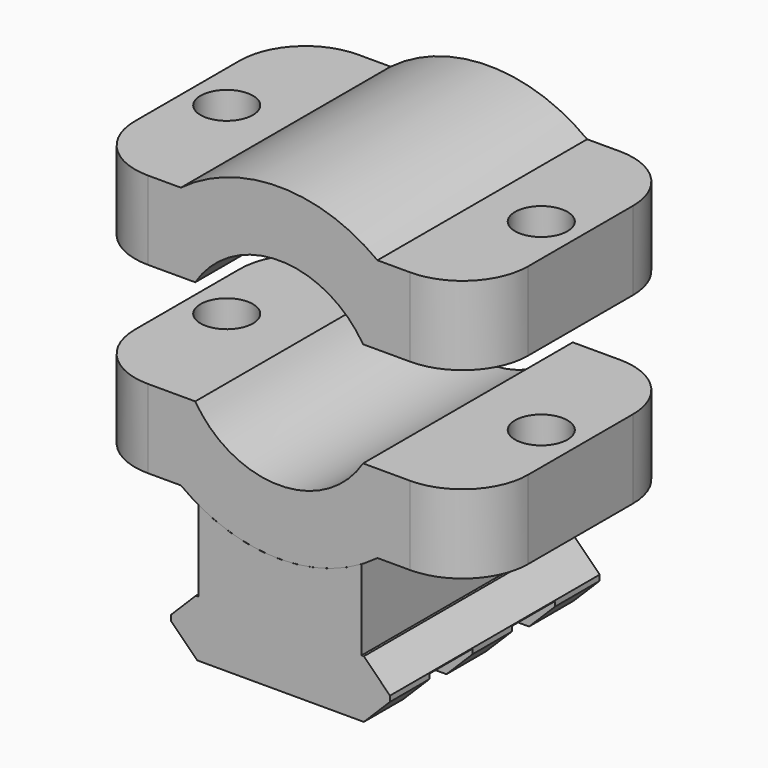
from build123d import *

# Parameters (mm, degrees)
F1_DEPTH = 25.4
F3_DEPTH = 25.4
F4_W     = 5.2324
F4_H     = 18.784354
F4_H_2   = 16.00518
F5_DEPTH = 12.7
F7_R     = 6.35
F8_R     = 2.54
F9_DEPTH = 38.1


with BuildPart() as f1:
    # F0 (on Front) → F1 (new body)
    with BuildSketch(Plane.XZ):
        with BuildLine():
            Line((-19.05, 12.7), (-19.05, 5.08))
            Line((-19.05, 5.08), (-8.132216, 5.08))
            ThreePointArc((-8.132216, 5.08), (0, 9.5885), (8.132216, 5.08))
            Line((8.132216, 5.08), (19.05, 5.08))
            Line((19.05, 5.08), (19.05, 12.7))
            Line((19.05, 12.7), (9.525, 12.7))
            ThreePointArc((9.525, 12.7), (0, 15.875), (-9.525, 12.7))
            Line((-9.525, 12.7), (-19.05, 12.7))
        make_face()
        with BuildLine():
            ThreePointArc((8.132216, -5.08), (0, -9.5885), (-8.132216, -5.08))
            Line((-8.132216, -5.08), (-19.05, -5.08))
            Line((-19.05, -5.08), (-19.05, -12.7))
            Line((-19.05, -12.7), (-9.525, -12.7))
            ThreePointArc((-9.525, -12.7), (0, -15.875), (9.525, -12.7))
            Line((9.525, -12.7), (19.05, -12.7))
            Line((19.05, -12.7), (19.05, -5.08))
            Line((19.05, -5.08), (8.132216, -5.08))
        make_face()
    extrude(amount=F1_DEPTH)

    # F7
    f7_edges = [f1.edges().sort_by_distance(p)[0] for p in [
        (-19.05, 0, -8.89),
        (-19.05, 0, 8.89),
        (-19.05, -25.4, 8.89),
        (-19.05, -25.4, -8.89),
        (19.05, -25.4, -8.89),
        (19.05, -25.4, 8.89),
        (19.05, 0, -8.89),
        (19.05, 0, 8.89),
    ]]
    fillet(f7_edges, radius=F7_R)

    # F8 (on face) → F9 (cut)
    with BuildSketch(Plane(origin=(0, 0, -12.7), x_dir=(1, 0, 0), z_dir=(0, 0, -1))):
        with Locations((-15.24, 12.7)):
            Circle(F8_R)
        with Locations((15.24, 12.7)):
            Circle(F8_R)
    extrude(amount=-F9_DEPTH, mode=Mode.SUBTRACT)


with BuildPart() as f3:
    # F2 (on Front) → F3 (new body)
    with BuildSketch(Plane.XZ):
        Polygon((7.978181, -12.7), (-7.8359, -12.7), (-7.8359, -21.630681), (-8.0645, -21.630681), (-10.480051, -24.046232), (-10.480051, -24.579632), (-7.947619, -27.112064), (8.206781, -27.112064), (10.739213, -24.579632), (10.739213, -24.046232), (8.206781, -21.5138), (7.978181, -21.5138), align=None)
    extrude(amount=F3_DEPTH)

    # F4 (on Right) → F5 (cut, symmetric)
    with BuildSketch(Plane.YZ):
        with Locations((-8.001, -33.507041)):
            Rectangle(F4_W, F4_H)
        with Locations((-18.0086, -32.117454)):
            Rectangle(F4_W, F4_H_2)
    extrude(amount=F5_DEPTH, both=True, mode=Mode.SUBTRACT)

    # F6: cut F1
    add(f1.part, mode=Mode.SUBTRACT)


solid = Compound([f1.part, f3.part])
